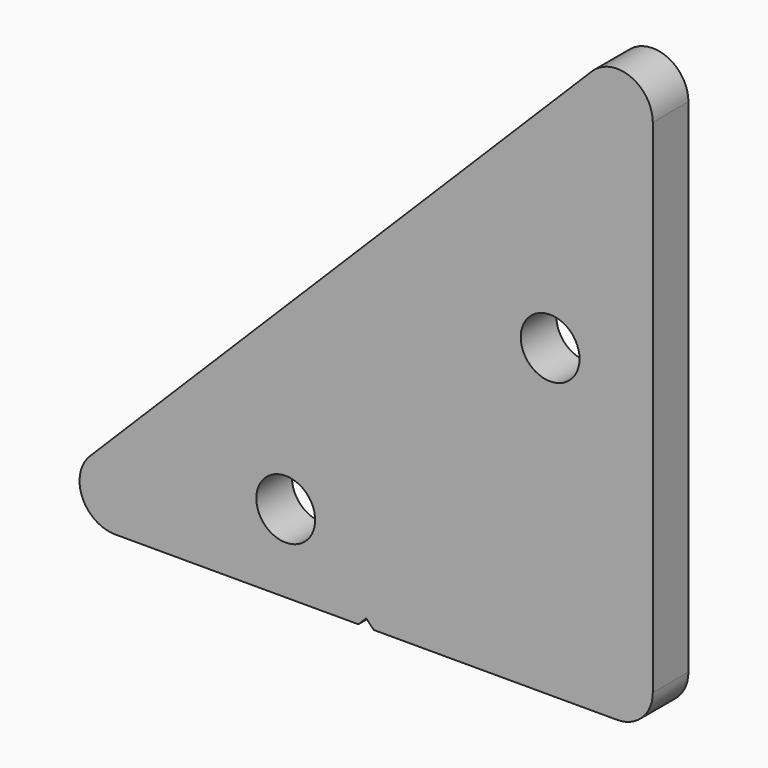
from build123d import *

# Parameters (mm, degrees)
F0_R     = 2.0955
F1_DEPTH = 3.175


with BuildPart() as f1:
    # F0 (on Front) → F1 (new body)
    with BuildSketch(Plane.XZ):
        with BuildLine():
            ThreePointArc((-2.54, 0), (-0.743949, 0.743949), (0, 2.54))
            Line((0, 2.54), (0, 38.317898))
            ThreePointArc((0, 38.317898), (-1.567984, 40.664552), (-4.336051, 40.113949))
            Line((-4.336051, 40.113949), (-40.113949, 4.336051))
            ThreePointArc((-40.113949, 4.336051), (-40.664552, 1.567984), (-38.317898, 0))
            Line((-38.317898, 0), (-20.981795, 0))
            Line((-20.981795, 0), (-20.428949, 0.552846))
            Line((-20.428949, 0.552846), (-19.876103, 0))
            Line((-19.876103, 0), (-2.54, 0))
        make_face()
        with Locations((-26.162, 5.5372)):
            Circle(F0_R, mode=Mode.SUBTRACT)
        with Locations((-7.3152, 21.7805)):
            Circle(F0_R, mode=Mode.SUBTRACT)
    extrude(amount=F1_DEPTH)


solid = f1.part
